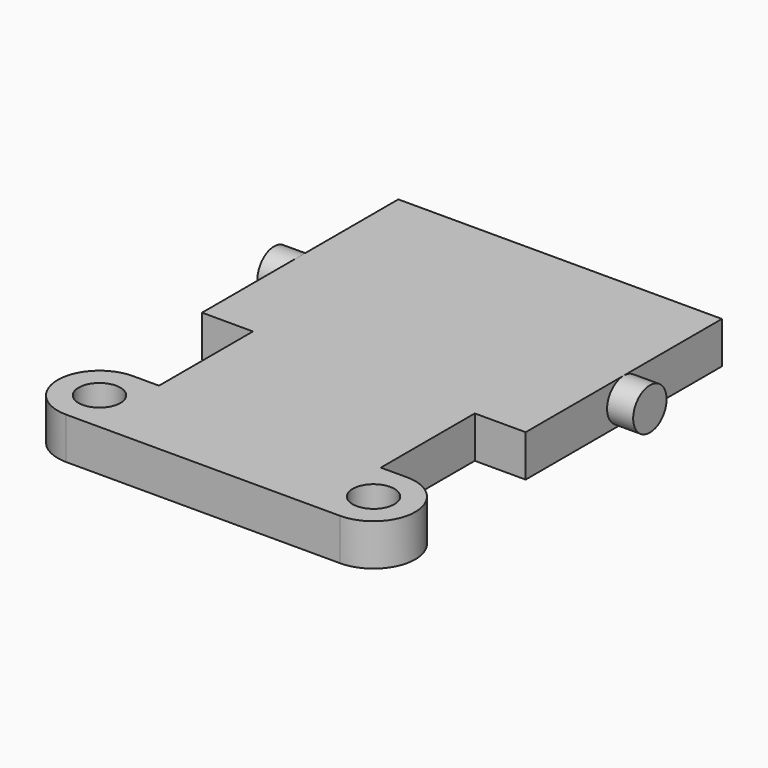
from build123d import *

# Parameters (mm, degrees)
F0_R     = 0.8
F1_DEPTH = 1.6
F2_W     = 3.14566
F2_H     = 3.226229
F2_R     = 0.8
F3_DEPTH = 1
F4_W     = 2.903376
F4_H     = 2.958158
F4_R     = 0.8
F5_DEPTH = 1


with BuildPart() as f1:
    # F0 (on Top) → F1 (new body)
    with BuildSketch(Plane.XY):
        with BuildLine():
            Line((0, 3.9), (0, 0))
            Line((0, 0), (1.95, 0))
            Line((1.95, 0), (1.95, -4.5))
            Line((1.95, -4.5), (0.95, -4.5))
            ThreePointArc((0.95, -4.5), (-0.65, -6.1), (0.95, -7.7))
            Line((0.95, -7.7), (11.45, -7.7))
            ThreePointArc((11.45, -7.7), (13.05, -6.1), (11.45, -4.5))
            Line((11.45, -4.5), (10.45, -4.5))
            Line((10.45, -4.5), (10.45, 0))
            Line((10.45, 0), (12.4, 0))
            Line((12.4, 0), (12.4, 3.9))
            Line((12.4, 3.9), (13.4, 3.9))
            Line((13.4, 3.9), (13.4, 5.5))
            Line((13.4, 5.5), (12.4, 5.5))
            Line((12.4, 5.5), (12.4, 9.4))
            Line((12.4, 9.4), (0, 9.4))
            Line((0, 9.4), (0, 5.5))
            Line((0, 5.5), (-1, 5.5))
            Line((-1, 5.5), (-1, 3.9))
            Line((-1, 3.9), (0, 3.9))
        make_face()
        with Locations((0.95, -6.1)):
            Circle(F0_R, mode=Mode.SUBTRACT)
        with Locations((11.45, -6.1)):
            Circle(F0_R, mode=Mode.SUBTRACT)
    extrude(amount=F1_DEPTH)

    # F2 (on face) → F3 (cut, through all)
    with BuildSketch(Plane(origin=(-1, 0, 0), x_dir=(0, -1, 0), z_dir=(-1, 0, 0))):
        with Locations((-4.643819, 0.893174)):
            Rectangle(F2_W, F2_H)
        with Locations((-4.7, 0.8)):
            Circle(F2_R, mode=Mode.SUBTRACT)
    extrude(amount=-F3_DEPTH, mode=Mode.SUBTRACT)

    # F4 (on face) → F5 (cut, through all)
    with BuildSketch(Plane.YZ.offset(13.4)):
        with Locations((4.745394, 0.737966)):
            Rectangle(F4_W, F4_H)
        with Locations((4.7, 0.8)):
            Circle(F4_R, mode=Mode.SUBTRACT)
    extrude(amount=-F5_DEPTH, mode=Mode.SUBTRACT)


solid = f1.part
